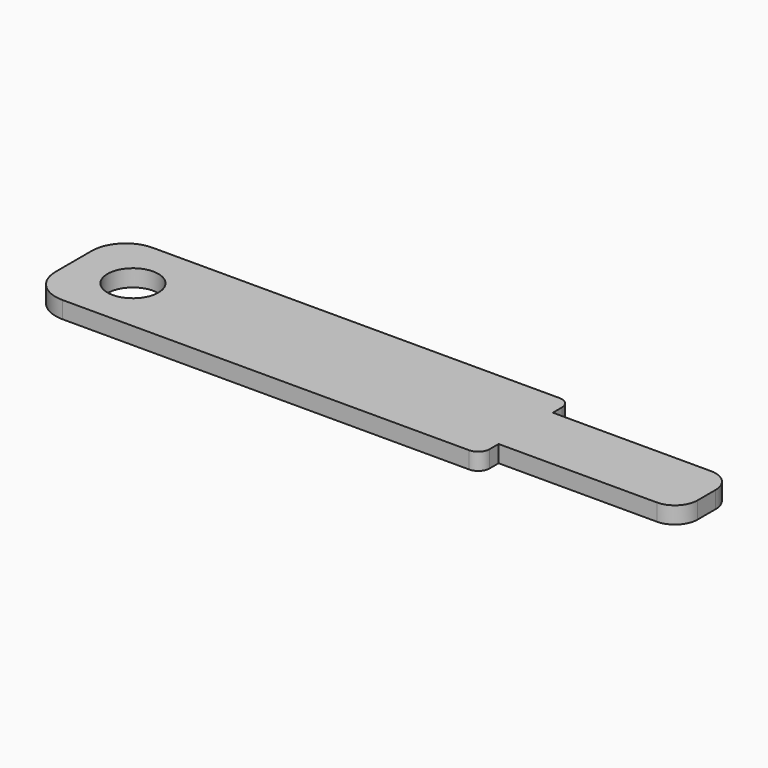
from build123d import *

# Parameters (mm, degrees)
F0_R     = 2.25
F0_W     = 16
F0_H     = 6
F1_DEPTH = 1.5
F2_R     = 1
F3_R     = 2


with BuildPart() as f1:
    # F0 (on Top) → F1 (new body)
    with BuildSketch(Plane.XY):
        with BuildLine():
            Line((-25, -5), (11, -5))
            ThreePointArc((11, -5), (11.707107, -4.707107), (12, -4))
            Line((12, -4), (12, -3))
            Line((12, -3), (12, 3))
            Line((12, 3), (12, 5))
            Line((12, 5), (-25, 5))
            ThreePointArc((-25, 5), (-27.12132, 4.12132), (-28, 2))
            Line((-28, 2), (-28, -2))
            ThreePointArc((-28, -2), (-27.12132, -4.12132), (-25, -5))
        make_face()
        with Locations((-22.75, 0)):
            Circle(F0_R, mode=Mode.SUBTRACT)
        with Locations((20, 0)):
            Rectangle(F0_W, F0_H)
    extrude(amount=F1_DEPTH)

    # F2
    f2_edges = [f1.edges().sort_by_distance(p)[0] for p in [
        (12, 5, 0.75),
    ]]
    fillet(f2_edges, radius=F2_R)

    # F3
    f3_edges = [f1.edges().sort_by_distance(p)[0] for p in [
        (28, 3, 0.75),
        (28, -3, 0.75),
    ]]
    fillet(f3_edges, radius=F3_R)


solid = f1.part
